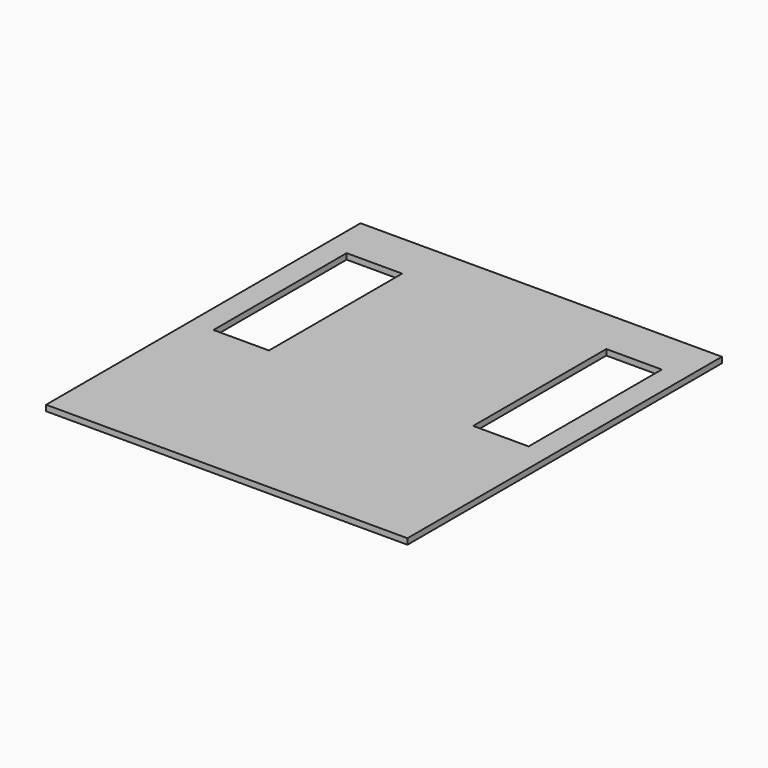
from build123d import *

# Parameters (mm, degrees)
F1_DEPTH = 3.175


with BuildPart() as f1:
    # F0 (on Top) → F1 (new body)
    with BuildSketch(Plane.XY):
        Polygon((-30.675, -41.175), (-30.675, 38), (-30.675, 41.175), (-56.075, 41.175), (-56.075, -50.265), (-86.555, -50.265), (-86.555, 41.175), (-86.555, 66.575), (-99.255, 66.575), (-99.255, -149.325), (99.255, -149.325), (99.255, 66.575), (86.555, 66.575), (86.555, 41.175), (86.555, -50.265), (56.075, -50.265), (56.075, 41.175), (30.675, 41.175), (30.675, -38), (30.675, -41.175), (27.5, -41.175), (17.675, -41.175), (17.675, -99.35), (17.675, -102.525), (-17.675, -102.525), (-17.675, -99.35), (-17.675, -41.175), (-27.5, -41.175), align=None)
        Polygon((-30.675, 41.175), (-30.675, 38), (-30.675, -41.175), (-27.5, -41.175), (-17.675, -41.175), (-14.5, -41.175), (-13.75, -41.175), (0, -41.175), (14.5, -41.175), (17.675, -41.175), (27.5, -41.175), (30.675, -41.175), (30.675, -38), (30.675, 41.175), (27.5, 41.175), (-27.5, 41.175), align=None)
        Polygon((-27.5, -38), (-27.5, 0), (-27.5, 38), (27.5, 38), (27.5, -38), align=None, mode=Mode.SUBTRACT)
        Polygon((-56.075, 41.175), (-30.675, 41.175), (-27.5, 41.175), (27.5, 41.175), (30.675, 41.175), (56.075, 41.175), (86.555, 41.175), (86.555, 66.575), (-86.555, 66.575), (-86.555, 41.175), align=None)
        Polygon((-27.5, 38), (-27.5, 0), (-27.5, -38), (27.5, -38), (27.5, 38), align=None)
        Polygon((-14.5, -41.175), (-17.675, -41.175), (-17.675, -99.35), (-17.675, -102.525), (17.675, -102.525), (17.675, -99.35), (17.675, -41.175), (14.5, -41.175), (0, -41.175), (-13.75, -41.175), align=None)
        Polygon((-14.5, -96.175), (-14.5, -44.35), (14.5, -44.35), (14.5, -96.175), (14.5, -99.35), (-14.5, -99.35), align=None, mode=Mode.SUBTRACT)
        Polygon((14.5, -44.35), (-14.5, -44.35), (-14.5, -96.175), (-14.5, -99.35), (14.5, -99.35), (14.5, -96.175), align=None)
    extrude(amount=F1_DEPTH)


solid = f1.part
